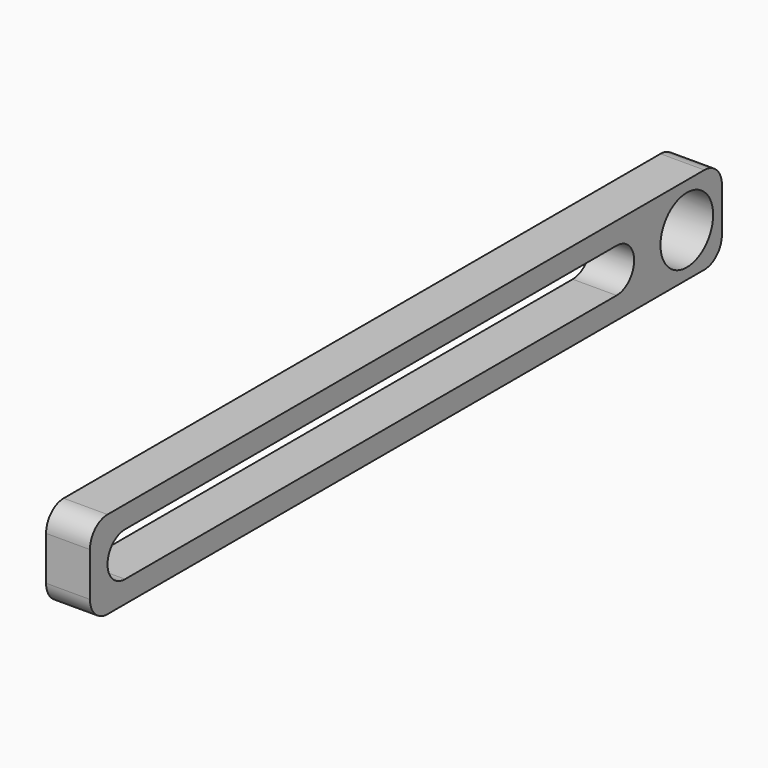
from build123d import *

# Parameters (mm, degrees)
F0_R     = 9.525
F1_DEPTH = 6.35


with BuildPart() as f1:
    # F0 (on Right) → F1 (new body, symmetric)
    with BuildSketch(Plane.YZ):
        with BuildLine():
            ThreePointArc((114.3, 6.35), (112.440128, 10.840128), (107.95, 12.7))
            Line((107.95, 12.7), (-107.95, 12.7))
            ThreePointArc((-107.95, 12.7), (-112.440128, 10.840128), (-114.3, 6.35))
            Line((-114.3, 6.35), (-114.3, -6.35))
            ThreePointArc((-114.3, -6.35), (-112.440128, -10.840128), (-107.95, -12.7))
            Line((-107.95, -12.7), (107.95, -12.7))
            ThreePointArc((107.95, -12.7), (112.440128, -10.840128), (114.3, -6.35))
            Line((114.3, -6.35), (114.3, 6.35))
        make_face()
        with BuildLine():
            ThreePointArc((-101.6, -6.35), (-107.95, 0), (-101.6, 6.35))
            Line((-101.6, 6.35), (76.2, 6.35))
            ThreePointArc((76.2, 6.35), (82.55, 0), (76.2, -6.35))
            Line((76.2, -6.35), (-101.6, -6.35))
        make_face(mode=Mode.SUBTRACT)
        with Locations((101.6, 0)):
            Circle(F0_R, mode=Mode.SUBTRACT)
    extrude(amount=F1_DEPTH, both=True)


solid = f1.part
